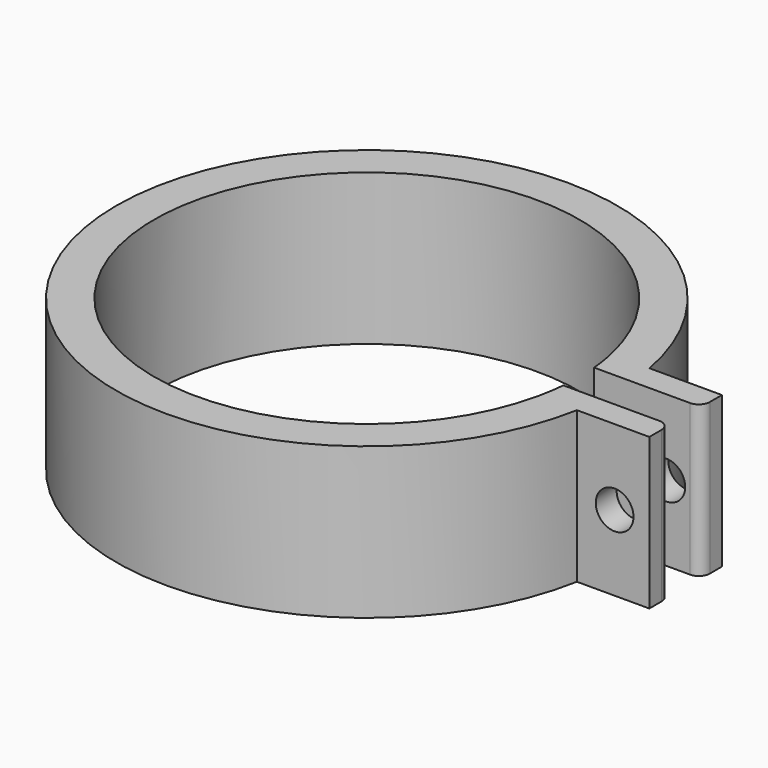
from build123d import *

# Parameters (mm, degrees)
F1_DEPTH = 25.4
F3_D     = 6.35
F4_R     = 1.839631


with BuildPart() as f1:
    # F0 (on Top) → F1 (new body)
    with BuildSketch(Plane.XY):
        with BuildLine():
            ThreePointArc((34.949522, 7.62886), (35.355888, 5.443324), (35.62572, 3.236768))
            Line((35.62572, 3.236768), (41.997912, 3.236768))
            ThreePointArc((41.997912, 3.236768), (41.769655, 5.440338), (41.425859, 7.62886))
            Line((41.425859, 7.62886), (34.949522, 7.62886))
        make_face()
        with BuildLine():
            ThreePointArc((34.949522, -7.62886), (-35.772456, 0), (34.949522, 7.62886))
            Line((34.949522, 7.62886), (41.425859, 7.62886))
            ThreePointArc((41.425859, 7.62886), (-42.122456, 0), (41.425859, -7.62886))
            Line((41.425859, -7.62886), (34.949522, -7.62886))
        make_face()
        with BuildLine():
            ThreePointArc((41.425859, 7.62886), (41.769655, 5.440338), (41.997912, 3.236768))
            Line((41.997912, 3.236768), (53.603914, 3.236768))
            Line((53.603914, 3.236768), (53.603914, 7.62886))
            Line((53.603914, 7.62886), (41.425859, 7.62886))
        make_face()
        with BuildLine():
            ThreePointArc((35.62572, -3.236768), (35.355888, -5.443324), (34.949522, -7.62886))
            Line((34.949522, -7.62886), (41.425859, -7.62886))
            ThreePointArc((41.425859, -7.62886), (41.769655, -5.440338), (41.997912, -3.236768))
            Line((41.997912, -3.236768), (35.62572, -3.236768))
        make_face()
        with BuildLine():
            ThreePointArc((41.997912, -3.236768), (41.769655, -5.440338), (41.425859, -7.62886))
            Line((41.425859, -7.62886), (53.603914, -7.62886))
            Line((53.603914, -7.62886), (53.603914, -3.236768))
            Line((53.603914, -3.236768), (41.997912, -3.236768))
        make_face()
    extrude(amount=F1_DEPTH)

    # F3 (through all)
    with Locations(Plane(origin=(0, 7.62886, 0), x_dir=(-1, 0, 0), z_dir=(0, 1, 0))):
        with Locations((-47.770534, 12.7)):
            Hole(F3_D / 2)

    # F4
    f4_edges = [f1.edges().sort_by_distance(p)[0] for p in [
        (53.603914, 3.236768, 12.7),
        (53.603914, -3.236768, 12.7),
    ]]
    fillet(f4_edges, radius=F4_R)


solid = f1.part
